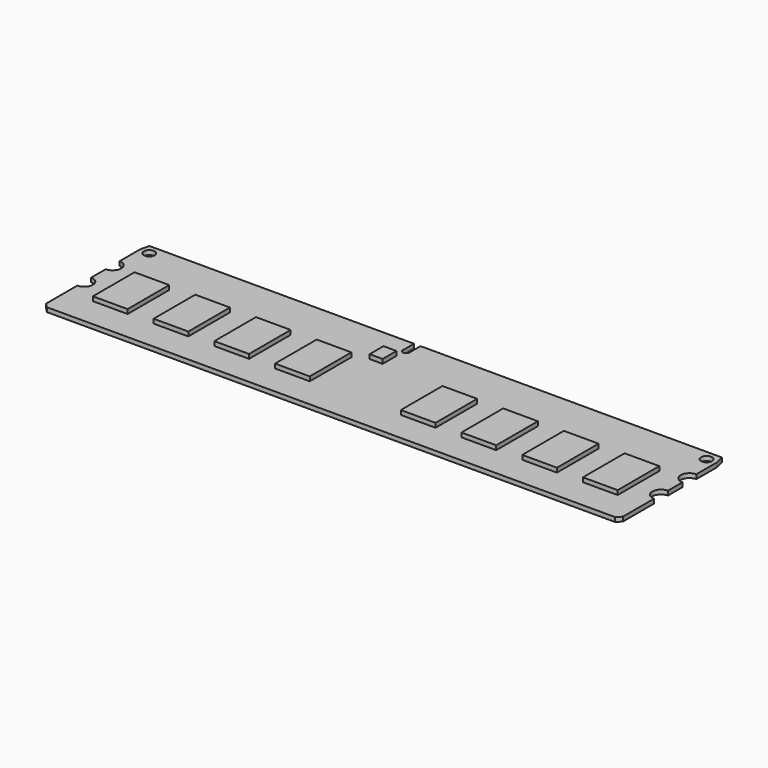
from build123d import *

# Parameters (mm, degrees)
F0_R     = 1.25
F1_DEPTH = 1
F2_W     = 8
F2_H     = 12
F2_W_2   = 3
F2_H_2   = 4
F3_DEPTH = 1


with BuildPart() as f1:
    # F0 (on Top) → F1 (new body)
    with BuildSketch(Plane.XY):
        with BuildLine():
            Line((1.405504, 3.364061), (-59.594496, 3.364061))
            Line((-59.594496, 3.364061), (-60.094496, 1.364061))
            Line((-60.094496, 1.364061), (-60.094496, -4.635939))
            ThreePointArc((-60.094496, -4.635939), (-58.094496, -6.635939), (-60.094496, -8.635939))
            Line((-60.094496, -8.635939), (-60.094496, -12.811412))
            ThreePointArc((-60.094496, -12.811412), (-58.094496, -14.811412), (-60.094496, -16.811412))
            Line((-60.094496, -16.811412), (-60.094496, -25.811412))
            Line((-60.094496, -25.811412), (-59.094496, -26.811412))
            Line((-59.094496, -26.811412), (71.905504, -26.811412))
            Line((71.905504, -26.811412), (72.905504, -25.811412))
            Line((72.905504, -25.811412), (72.905504, -16.811412))
            ThreePointArc((72.905504, -16.811412), (70.905504, -14.811412), (72.905504, -12.811412))
            Line((72.905504, -12.811412), (72.905504, -8.635939))
            ThreePointArc((72.905504, -8.635939), (70.905504, -6.635939), (72.905504, -4.635939))
            Line((72.905504, -4.635939), (72.905504, 1.133777))
            Line((72.905504, 1.133777), (72.405504, 3.364061))
            Line((72.405504, 3.364061), (2.905504, 3.364061))
            Line((2.905504, 3.364061), (2.905504, 0))
            ThreePointArc((2.905504, 0), (2.155504, -0.547161), (1.405504, 0))
            Line((1.405504, 0), (1.405504, 3.364061))
        make_face()
        with Locations((-57.844496, 1.114061)):
            Circle(F0_R, mode=Mode.SUBTRACT)
        with Locations((70.655504, 1.114061)):
            Circle(F0_R, mode=Mode.SUBTRACT)
    extrude(amount=F1_DEPTH)

    # F2 (on face) → F3 (join)
    with BuildSketch(Plane.XY.offset(1)):
        with Locations((-50.094496, -13.811412)):
            Rectangle(F2_W, F2_H)
        with Locations((-36.094496, -13.811412)):
            Rectangle(F2_W, F2_H)
        with Locations((-22.094496, -13.811412)):
            Rectangle(F2_W, F2_H)
        with Locations((-8.094496, -13.811412)):
            Rectangle(F2_W, F2_H)
        with Locations((62.905504, -13.811412)):
            Rectangle(F2_W, F2_H)
        with Locations((48.905504, -13.811412)):
            Rectangle(F2_W, F2_H)
        with Locations((34.905504, -13.811412)):
            Rectangle(F2_W, F2_H)
        with Locations((20.905504, -13.811412)):
            Rectangle(F2_W, F2_H)
        with Locations((0.405504, -4.311412)):
            Rectangle(F2_W_2, F2_H_2)
    extrude(amount=F3_DEPTH)


solid = f1.part
